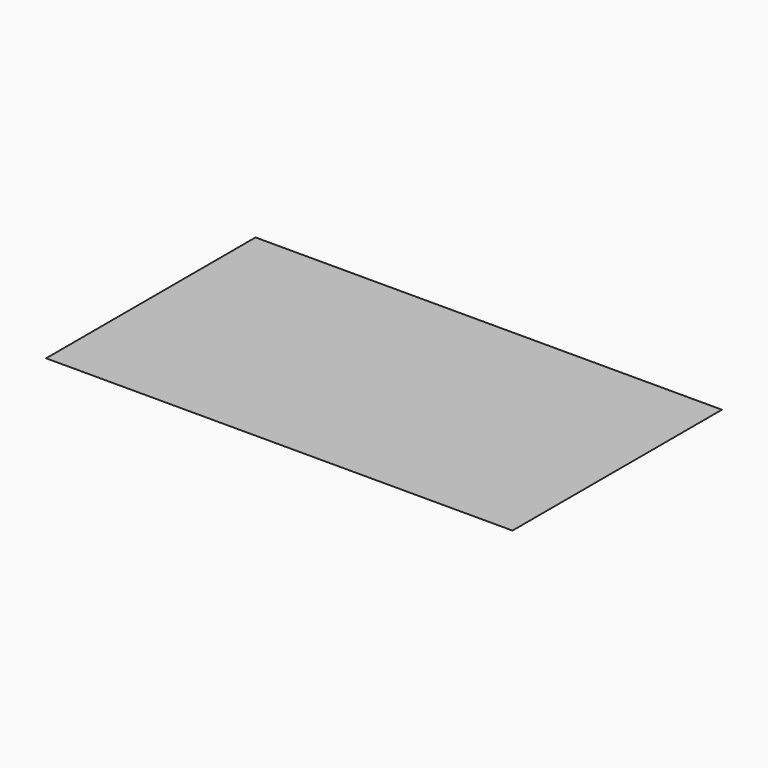
from build123d import *

# Parameters (mm, degrees)
F0_W     = 275
F0_H     = 100
F1_DEPTH = 490
F3_DEPTH = 275.001
F5_DEPTH = 490.001


with BuildPart() as f1:
    # F0 (on Right) → F1 (new body)
    with BuildSketch(Plane.YZ):
        Rectangle(F0_W, F0_H)
    extrude(amount=F1_DEPTH)

    # F2 (on face) → F3 (cut, through all)
    with BuildSketch(Plane.XZ.offset(137.5)):
        Polygon((0, 50), (0, -50), (220, -50), align=None)
        Polygon((490, 50), (270, -50), (490, -50), align=None)
    extrude(amount=-F3_DEPTH, mode=Mode.SUBTRACT)

    # F4 (on Right) → F5 (cut, through all)
    with BuildSketch(Plane.YZ):
        Polygon((137.5, 50), (81.689713, -29.70535), (-137.5, 50), (-137.5, -50), (137.5, -50), align=None)
    extrude(amount=F5_DEPTH, mode=Mode.SUBTRACT)


solid = f1.part
